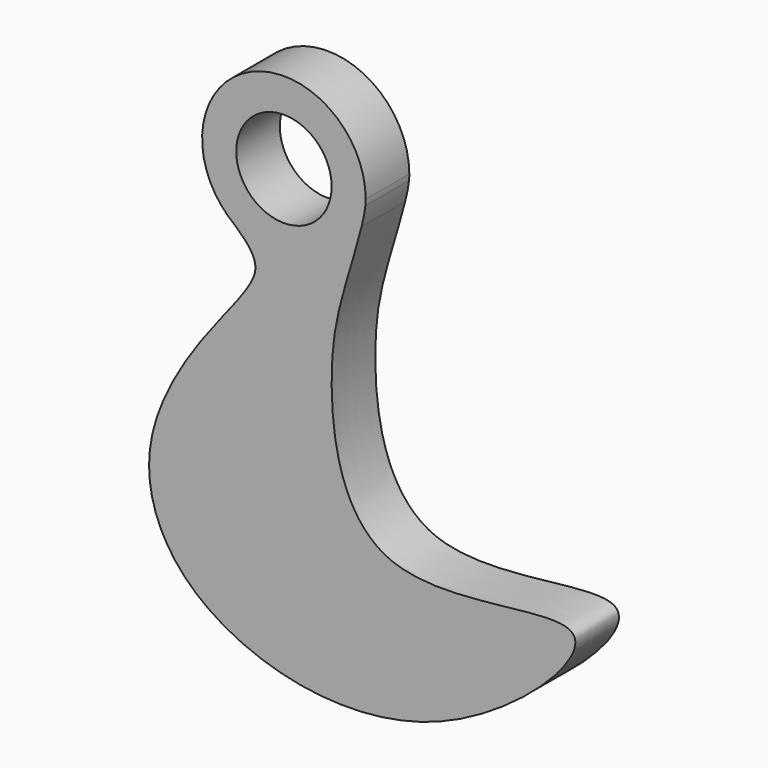
from build123d import *

# Parameters (mm, degrees)
F0_R     = 1.75
F1_DEPTH = 2


with BuildPart() as f1:
    # F0 (on Front) → F1 (new body)
    with BuildSketch(Plane.XZ):
        with BuildLine():
            ThreePointArc((2.8490075742, -0.9397637162), (0.8985448588, -2.8622748185), (-1.8007405561, -2.3994444044))
            add(Edge.make_bspline(
                [(-1.8007405561, -2.3994444044), (-0.9452284751, -3.1457969534), (-0.960421793, -3.996023364), (-2.8626241773, -6.1230530504), (-5.7263520294, -10.5464879343), (-3.6925784715, -15.8486819474), (5.4309639779, -17.9850150948), (13.9188565768, -9.5598243431), (2.3871493985, -13.4351961014), (1.5032738331, -5.9554206683), (2.0670067286, -3.5703690445), (2.7018011548, -1.5296581325), (2.8490075742, -0.9397637162)],
                knots=[0.0052266126, 0.0052266126, 0.0052266126, 0.0052266126, 0.0655074081, 0.1407812722, 0.2450916889, 0.3453206718, 0.4839136788, 0.6037554904, 0.7239164047, 0.8339010766, 0.9195854551, 0.9673095292, 0.9673095292, 0.9673095292, 0.9673095292], degree=3))
        make_face()
        with BuildLine():
            ThreePointArc((2.9926244451, -0.2102354171), (2.9981555443, -0.1051823766), (3, 0))
            ThreePointArc((3, 0), (-1.1980341415, 2.7504025516), (-2.0431427972, -2.1967174398))
            add(Edge.make_bspline(
                [(-2.0431427972, -2.1967174398), (-1.955576188, -2.267251799), (-1.8749172514, -2.3347323251), (-1.8007405561, -2.3994444044)],
                knots=[0, 0, 0, 0, 0.0052266126, 0.0052266126, 0.0052266126, 0.0052266126], degree=3))
            ThreePointArc((-1.8007405561, -2.3994444044), (0.8985448588, -2.8622748185), (2.8490075742, -0.9397637162))
            add(Edge.make_bspline(
                [(2.8490075742, -0.9397637162), (2.9200109555, -0.6552346966), (2.972430664, -0.4033063563), (2.9926244451, -0.2102354171)],
                knots=[0.9673095292, 0.9673095292, 0.9673095292, 0.9673095292, 0.9903287062, 0.9903287062, 0.9903287062, 0.9903287062], degree=3))
        make_face()
        Circle(F0_R, mode=Mode.SUBTRACT)
    extrude(amount=F1_DEPTH)


solid = f1.part
